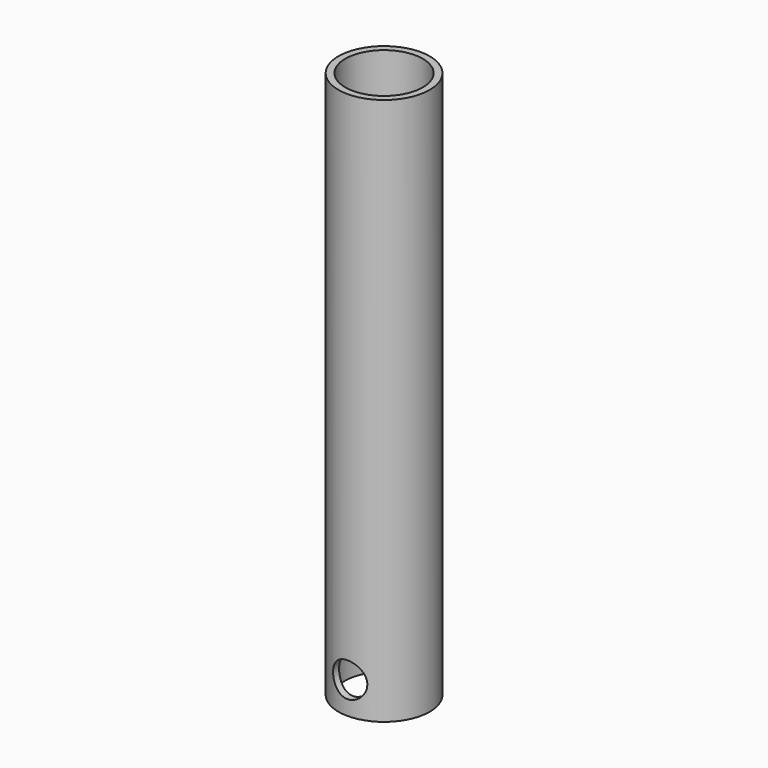
from build123d import *

# Parameters (mm, degrees)
F0_R     = 10
F0_R_2   = 8.5
F1_DEPTH = 120
F3_R     = 3.75
F4_DEPTH = 3.3719269488


with BuildPart() as f1:
    # F0 (on Top) → F1 (new body)
    with BuildSketch(Plane.XY):
        Circle(F0_R)
        Circle(F0_R_2, mode=Mode.SUBTRACT)
    extrude(amount=F1_DEPTH)

    # F3 (on offset) → F4 (cut, up to face)
    with BuildSketch(Plane.XZ.offset(10)):
        with Locations((0, 7)):
            Circle(F3_R)
    extrude(amount=-F4_DEPTH, mode=Mode.SUBTRACT)


solid = f1.part
